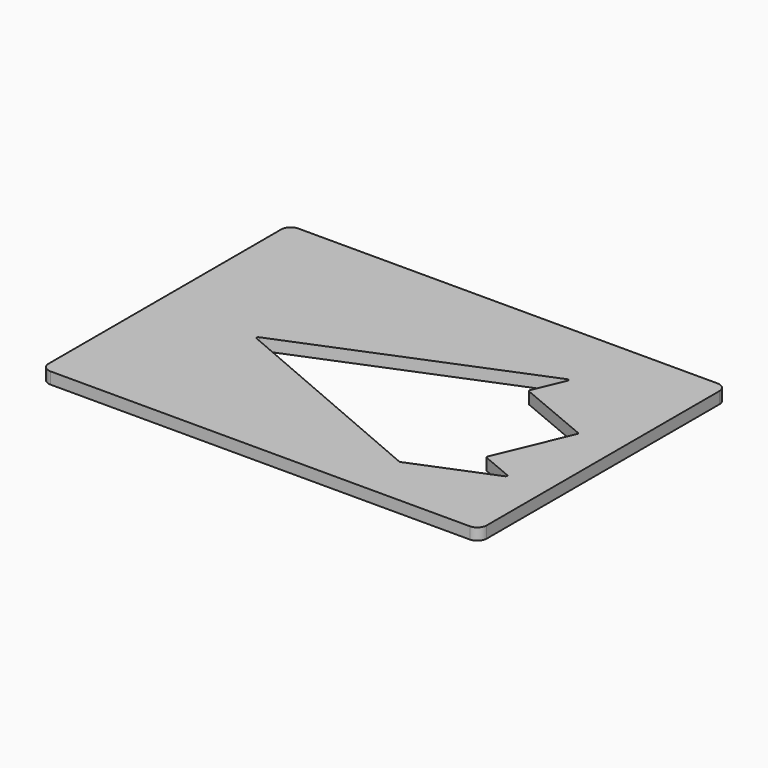
from build123d import *

# Parameters (mm, degrees)
F0_W     = 238.125
F0_H     = 168.275
F1_DEPTH = 6.35
F2_R     = 5.08
F4_DEPTH = 25.4
F6_DEPTH = 25.4
F7_R     = 0.7874


with BuildPart() as f1:
    # F0 (on Top) → F1 (new body)
    with BuildSketch(Plane.XY):
        Rectangle(F0_W, F0_H)
    extrude(amount=F1_DEPTH)

    # F2
    f2_edges = [f1.edges().sort_by_distance(p)[0] for p in [
        (-119.0625, 84.1375, 3.175),
        (-119.0625, -84.1375, 3.175),
        (119.0625, 84.1375, 3.175),
        (119.0625, -84.1375, 3.175),
    ]]
    fillet(f2_edges, radius=F2_R)

    # F3 (on face) → F4 (cut)
    with BuildSketch(Plane.XY.offset(6.35)):
        Polygon((-63.021223, -5.113947), (53.750796, -55.181694), (95.367796, -38.174427), (77.802704, -30.800822), (95.204413, 10.652795), (53.750796, 28.054503), (61.124402, 45.619595), align=None)
    extrude(amount=-F4_DEPTH, mode=Mode.SUBTRACT)

    # F5 (on face) → F6 (cut)
    with BuildSketch(Plane.XY.offset(6.35)):
        Polygon((55.413376, 28.733936), (63.482172, 47.95508), (-66.309597, -5.085824), (53.739022, -56.558461), (98.686428, -38.190185), (79.465284, -30.121389), (96.866992, 11.332227), align=None)
        Polygon((55.413376, 28.733936), (63.482172, 47.95508), (-66.309597, -5.085824), (53.739022, -56.558461), (98.686428, -38.190185), (79.465284, -30.121389), (96.866992, 11.332227), align=None)
    extrude(amount=-F6_DEPTH, mode=Mode.SUBTRACT)

    # F7
    f7_edges = [f1.edges().sort_by_distance(p)[0] for p in [
        (-66.309597, -5.085824, 3.175),
        (63.482172, 47.95508, 3.175),
        (96.866992, 11.332227, 3.175),
        (55.413376, 28.733936, 3.175),
        (79.465284, -30.121389, 3.175),
        (98.686428, -38.190185, 3.175),
        (53.739022, -56.558461, 3.175),
    ]]
    fillet(f7_edges, radius=F7_R)


solid = f1.part
